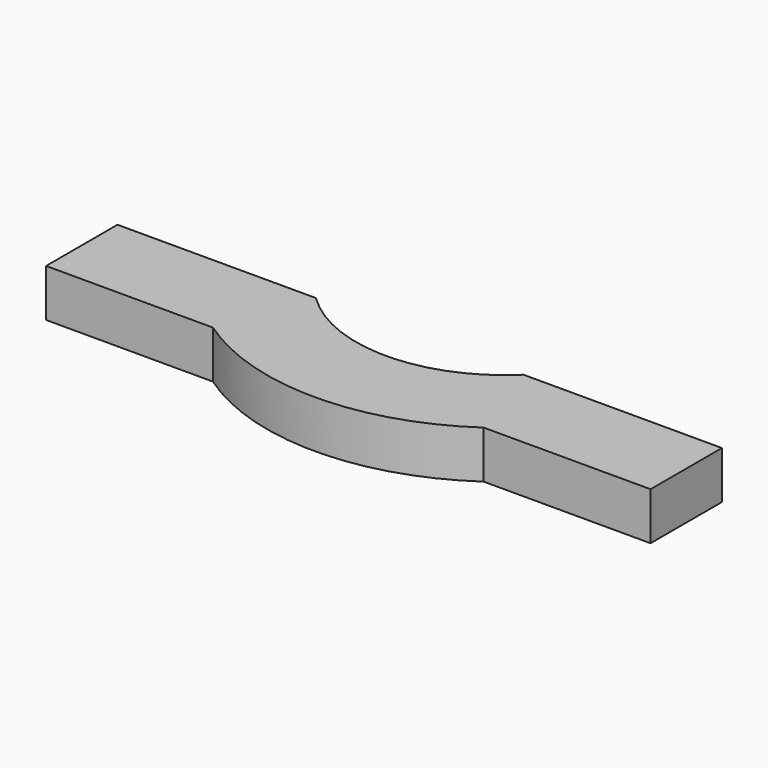
from build123d import *

# Parameters (mm, degrees)
BOX005_W          = 6
BOX005_H          = 4
BOX005_DEPTH      = 0.4
CYLINDER004_R     = 1.25
CYLINDER004_DEPTH = 0.4
CYLINDER003_R     = 2
CYLINDER003_DEPTH = 0.4
BOX004_W          = 5.08
BOX004_H          = 0.75
BOX004_DEPTH      = 0.4


with BuildPart() as cut_cube001:
    # Box005 → Box005 (new body)
    with BuildSketch(Plane(origin=(-3, 2.915, 0), x_dir=(1, 0, 0), z_dir=(0, 0, 1))):
        with Locations((3, 2)):
            Rectangle(BOX005_W, BOX005_H)
    extrude(amount=BOX005_DEPTH)


with BuildPart() as c_cut:
    # Cylinder004 → Cylinder004 (new body)
    with BuildSketch(Plane(origin=(0, 3.81, 0), x_dir=(1, 0, 0), z_dir=(0, 0, 1))):
        Circle(CYLINDER004_R)
    extrude(amount=CYLINDER004_DEPTH)


with BuildPart() as cut006:
    # Cylinder003 → Cylinder003 (new body)
    with BuildSketch(Plane(origin=(0, 3.81, 0), x_dir=(1, 0, 0), z_dir=(0, 0, 1))):
        Circle(CYLINDER003_R)
    extrude(amount=CYLINDER003_DEPTH)

    # Cut005: cut C_cut
    add(c_cut.part, mode=Mode.SUBTRACT)

    # Cut006: cut cut_cube001
    add(cut_cube001.part, mode=Mode.SUBTRACT)


with BuildPart() as c_chip001:
    # Box004 → Box004 (new body)
    with BuildSketch(Plane(origin=(-2.54, 2.165, 0), x_dir=(1, 0, 0), z_dir=(0, 0, 1))):
        with Locations((2.54, 0.375)):
            Rectangle(BOX004_W, BOX004_H)
    extrude(amount=BOX004_DEPTH)

    # Cut004: cut C_cut
    add(c_cut.part, mode=Mode.SUBTRACT)

    # Fusion009: union Cut006
    add(cut006.part)


with BuildPart() as c_chip001_1:
    # Fusion009 placement: moved
    add(c_chip001.part.moved(Location((2.54, -2.54, 3.5))))


solid = c_chip001_1.part
